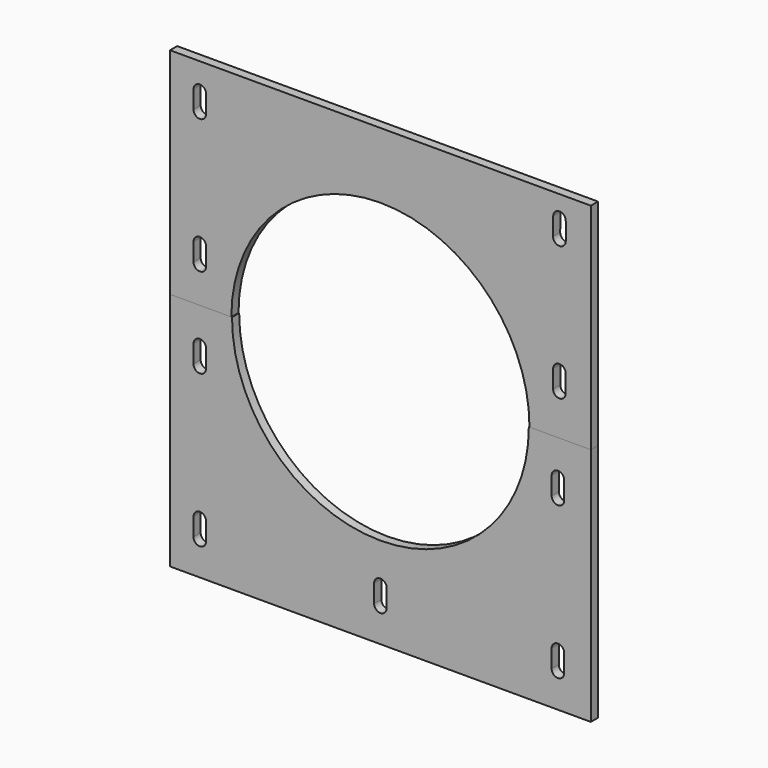
from build123d import *

# Parameters (mm, degrees)
EXTRUDE_DEPTH    = 10
EXTRUDE001_DEPTH = 10


with BuildPart() as extrude_body:
    # Sketch → Extrude (new body)
    with BuildSketch(Plane.XZ):
        with BuildLine():
            Line((-235, 0), (-166.5, 0))
            ThreePointArc((166.5, 0), (0, 166.5), (-166.5, 0))
            Line((166.5, 0), (235, 0))
            Line((235, 0), (235, 240))
            Line((235, 240), (-235, 240))
            Line((-235, 240), (-235, 0))
        make_face()
        with BuildLine():
            ThreePointArc((207.000122, 216.002623), (200.027945, 223.000067), (193.000122, 216.058513))
            Line((193.000122, 216.058513), (192.826997, 196.058513))
            ThreePointArc((192.826997, 196.058513), (199.888127, 188.910344), (207.007617, 196.000391))
            Line((207.007617, 196.000391), (207.000122, 216.002623))
        make_face(mode=Mode.SUBTRACT)
        with BuildLine():
            ThreePointArc((206.917312, 66), (199.917189, 73.000123), (192.917067, 66))
            Line((192.917067, 66), (192.917067, 45.999251))
            ThreePointArc((192.917067, 45.999251), (199.917189, 38.999128), (206.917312, 45.999251))
            Line((206.917312, 45.999251), (206.917312, 66))
        make_face(mode=Mode.SUBTRACT)
        with BuildLine():
            ThreePointArc((-194.74829, 210.253966), (-201.748413, 217.254089), (-208.748535, 210.253966))
            Line((-208.748535, 210.253966), (-208.748535, 190.253217))
            ThreePointArc((-208.748535, 190.253217), (-201.748413, 183.253095), (-194.74829, 190.253217))
            Line((-194.74829, 190.253217), (-194.74829, 210.253966))
        make_face(mode=Mode.SUBTRACT)
        with BuildLine():
            ThreePointArc((-194.74829, 60.253966), (-201.748413, 67.254089), (-208.748535, 60.253966))
            Line((-208.748535, 60.253966), (-208.748535, 40.253217))
            ThreePointArc((-208.748535, 40.253217), (-201.748413, 33.253095), (-194.74829, 40.253217))
            Line((-194.74829, 40.253217), (-194.74829, 60.253966))
        make_face(mode=Mode.SUBTRACT)
    extrude(amount=EXTRUDE_DEPTH)


with BuildPart() as extrude001:
    # Sketch001 → Extrude001 (new body)
    with BuildSketch(Plane.XZ):
        with BuildLine():
            Line((-235, 0), (-165.768562, 0))
            ThreePointArc((-165.768562, 0), (0, -165.768562), (165.768562, 0))
            Line((165.768562, 0), (235, 0))
            Line((235, 0), (235, -267.622833))
            Line((235, -267.622833), (-235, -267.622833))
            Line((-235, -267.622833), (-235, 0))
        make_face()
        with BuildLine():
            ThreePointArc((-194.748413, -40), (-201.748413, -33), (-208.748413, -40))
            Line((-208.748413, -40), (-208.748413, -60))
            ThreePointArc((-208.748413, -60), (-201.748413, -67), (-194.748413, -60))
            Line((-194.748413, -60), (-194.748413, -40))
        make_face(mode=Mode.SUBTRACT)
        with BuildLine():
            ThreePointArc((-194.748413, -210), (-201.748413, -203), (-208.748413, -210))
            Line((-208.748413, -210), (-208.748413, -230))
            ThreePointArc((-208.748413, -230), (-201.748413, -237), (-194.748413, -230))
            Line((-194.748413, -230), (-194.748413, -210))
        make_face(mode=Mode.SUBTRACT)
        with BuildLine():
            ThreePointArc((205.251266, -39.49302), (198.251266, -32.49302), (191.251266, -39.49302))
            Line((191.251266, -39.49302), (191.251266, -59.49302))
            ThreePointArc((191.251266, -59.49302), (198.251266, -66.49302), (205.251266, -59.49302))
            Line((205.251266, -59.49302), (205.251266, -39.49302))
        make_face(mode=Mode.SUBTRACT)
        with BuildLine():
            ThreePointArc((205.251266, -209.49302), (198.251266, -202.49302), (191.251266, -209.49302))
            Line((191.251266, -209.49302), (191.251266, -229.49302))
            ThreePointArc((191.251266, -229.49302), (198.251266, -236.49302), (205.251266, -229.49302))
            Line((205.251266, -229.49302), (205.251266, -209.49302))
        make_face(mode=Mode.SUBTRACT)
        with BuildLine():
            ThreePointArc((7, -210), (0, -203), (-7, -210))
            Line((-7, -210), (-7, -230))
            ThreePointArc((-7, -230), (0, -237), (7, -230))
            Line((7, -230), (7, -210))
        make_face(mode=Mode.SUBTRACT)
    extrude(amount=EXTRUDE001_DEPTH)


solid = Compound([extrude_body.part, extrude001.part])
